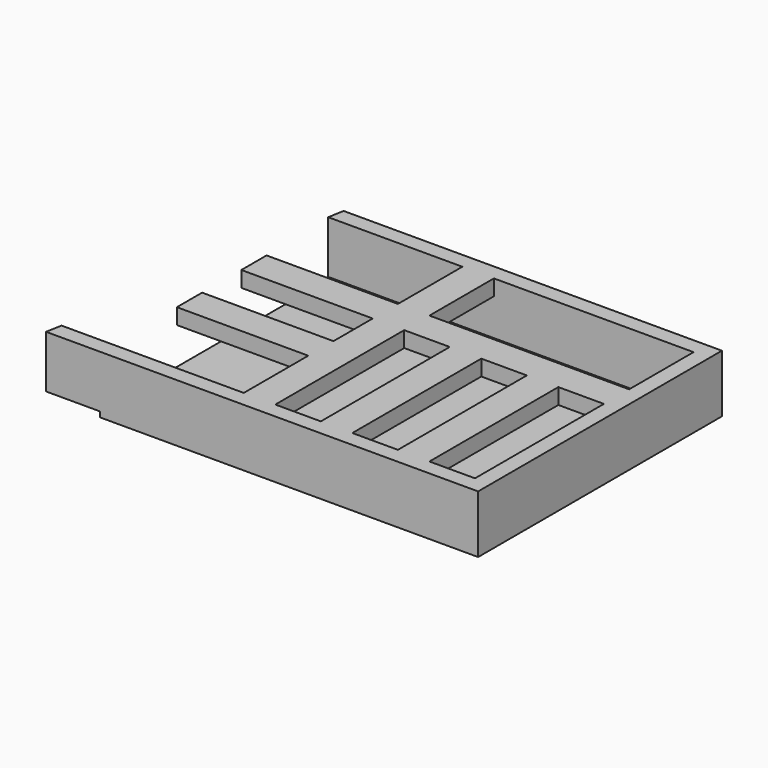
from build123d import *

# Parameters (mm, degrees)
F0_W     = 457.2
F0_H     = 368.3
F1_DEPTH = 6.35
F2_W     = 19.05
F2_H     = 330.2
F3_DEPTH = 63.5
F4_W     = 158.75
F4_H     = 38.1
F4_W_2   = 55.0164
F4_W_3   = 55.0418
F5_DEPTH = 19.05


with BuildPart() as f1:
    # F0 (on Top) → F1 (new body)
    with BuildSketch(Plane.XY):
        with Locations((228.6, 184.15)):
            Rectangle(F0_W, F0_H)
    extrude(amount=F1_DEPTH)

    # F2 (on face) → F3 (join)
    with BuildSketch(Plane.XY.offset(6.35)):
        Polygon((-61.582198, 19.05), (-64.941227, 0), (0, 0), (0, 19.05), align=None)
        Polygon((0, 19.05), (0, 0), (457.2, 0), (457.2, 19.05), (438.15, 19.05), align=None)
        with Locations((447.675, 184.15)):
            Rectangle(F2_W, F2_H)
        Polygon((0, 368.3), (0, 349.25), (438.15, 349.25), (457.2, 349.25), (457.2, 368.3), align=None)
        Polygon((-3.359029, 349.25), (0, 349.25), (0, 368.3), align=None)
    extrude(amount=F3_DEPTH)

    # F4 (on face) → F5 (join)
    with BuildSketch(Plane.XY.offset(69.85)):
        with Locations((79.375, 232.8418)):
            Rectangle(F4_W, F4_H)
        Polygon((196.85, 213.7918), (196.85, 251.8918), (196.85, 349.25), (158.75, 349.25), (158.75, 251.8918), (158.75, 213.7918), (158.75, 154.5336), (158.75, 116.4336), (158.75, 19.05), (196.85, 19.05), align=None)
        with Locations((224.3582, 232.8418)):
            Rectangle(F4_W_2, F4_H)
        Polygon((289.9664, 19.05), (289.9664, 213.7918), (289.9664, 251.8918), (251.8664, 251.8918), (251.8664, 213.7918), (251.8664, 19.05), align=None)
        with Locations((317.4873, 232.8418)):
            Rectangle(F4_W_3, F4_H)
        Polygon((345.0082, 19.05), (383.1082, 19.05), (383.1082, 213.7918), (383.1082, 251.8918), (345.0082, 251.8918), (345.0082, 213.7918), align=None)
        with Locations((410.6291, 232.8418)):
            Rectangle(F4_W_3, F4_H)
        with Locations((79.375, 135.4836)):
            Rectangle(F4_W, F4_H)
    extrude(amount=-F5_DEPTH)


solid = f1.part
